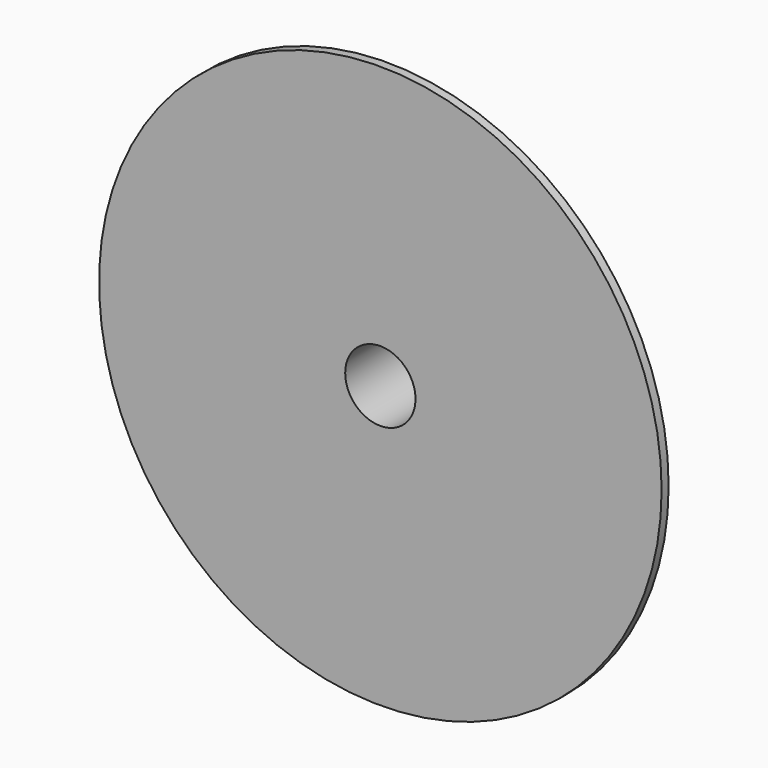
from build123d import *

# Parameters (mm, degrees)
F0_R     = 101.6
F1_DEPTH = 1.5875
F2_R     = 25.4
F3_DEPTH = 38.1
F4_R     = 12.7
F5_DEPTH = 63.5
F6_R     = 12.7
F7_DEPTH = 63.5


with BuildPart() as f1:
    # F0 (on Front) → F1 (new body, symmetric)
    with BuildSketch(Plane.XZ):
        Circle(F0_R)
    extrude(amount=F1_DEPTH, both=True)

    # F2 (on face) → F3 (join)
    with BuildSketch(Plane.XZ.offset(1.5875)):
        Circle(F2_R)
    extrude(amount=-F3_DEPTH)

    # F4 (on face) → F5 (cut)
    with BuildSketch(Plane(origin=(0, 36.5125, 0), x_dir=(-1, 0, 0), z_dir=(0, 1, 0))):
        Circle(F4_R)
    extrude(amount=F5_DEPTH, mode=Mode.SUBTRACT)

    # F6 (on face) → F7 (cut)
    with BuildSketch(Plane(origin=(0, 36.5125, 0), x_dir=(-1, 0, 0), z_dir=(0, 1, 0))):
        Circle(F6_R)
    extrude(amount=-F7_DEPTH, mode=Mode.SUBTRACT)


solid = f1.part
